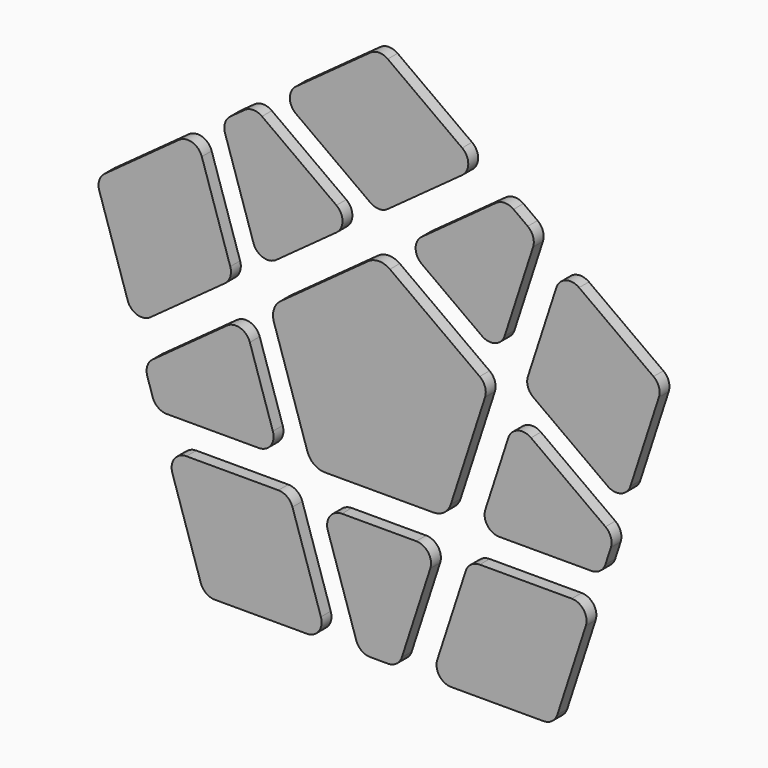
from build123d import *

# Parameters (mm, degrees)
F1_DEPTH = 1


with BuildPart() as f1:
    # F0 (on Front) → F1 (new body)
    with BuildSketch(Plane.XZ):
        with BuildLine():
            ThreePointArc((-12.514456, 3.324552), (-12.078531, 3.924552), (-12.078531, 4.666193))
            Line((-12.078531, 4.666193), (-14.38546, 11.766193))
            ThreePointArc((-14.38546, 11.766193), (-15.155908, 12.536641), (-16.232071, 12.366193))
            Line((-16.232071, 12.366193), (-22.271691, 7.978152))
            ThreePointArc((-22.271691, 7.978152), (-22.707617, 7.378152), (-22.707617, 6.636511))
            Line((-22.707617, 6.636511), (-20.400687, -0.463489))
            ThreePointArc((-20.400687, -0.463489), (-19.63024, -1.233936), (-18.554077, -1.063489))
            Line((-18.554077, -1.063489), (-12.514456, 3.324552))
        make_face()
        with BuildLine():
            Line((-8.346267, 6.352919), (-3.462847, 9.900932))
            ThreePointArc((-3.462847, 9.900932), (-2.968189, 10.871752), (-3.462847, 11.842572))
            Line((-3.462847, 11.842572), (-9.502467, 16.230614))
            ThreePointArc((-9.502467, 16.230614), (-10.20781, 16.459793), (-10.913152, 16.230614))
            Line((-10.913152, 16.230614), (-12.063882, 15.39456))
            ThreePointArc((-12.063882, 15.39456), (-12.499807, 14.79456), (-12.499807, 14.052919))
            Line((-12.499807, 14.052919), (-10.192877, 6.952919))
            ThreePointArc((-10.192877, 6.952919), (-9.42243, 6.182472), (-8.346267, 6.352919))
        make_face()
        with BuildLine():
            ThreePointArc((-0.705342, 12.929298), (0, 12.700119), (0.705342, 12.929298))
            Line((0.705342, 12.929298), (6.744963, 17.31734))
            ThreePointArc((6.744963, 17.31734), (7.239621, 18.28816), (6.744963, 19.25898))
            Line((6.744963, 19.25898), (0.705342, 23.647022))
            ThreePointArc((0.705342, 23.647022), (0, 23.876201), (-0.705342, 23.647022))
            Line((-0.705342, 23.647022), (-6.744963, 19.25898))
            ThreePointArc((-6.744963, 19.25898), (-7.239621, 18.28816), (-6.744963, 17.31734))
            Line((-6.744963, 17.31734), (-0.705342, 12.929298))
        make_face()
        with BuildLine():
            Line((3.462847, 9.900932), (8.346267, 6.352919))
            ThreePointArc((8.346267, 6.352919), (9.42243, 6.182472), (10.192877, 6.952919))
            Line((10.192877, 6.952919), (12.499807, 14.052919))
            ThreePointArc((12.499807, 14.052919), (12.499807, 14.79456), (12.063882, 15.39456))
            Line((12.063882, 15.39456), (10.913152, 16.230614))
            ThreePointArc((10.913152, 16.230614), (10.20781, 16.459793), (9.502467, 16.230614))
            Line((9.502467, 16.230614), (3.462847, 11.842572))
            ThreePointArc((3.462847, 11.842572), (2.968189, 10.871752), (3.462847, 9.900932))
        make_face()
        with BuildLine():
            Line((-4.392264, -7.545432), (4.392264, -7.545432))
            ThreePointArc((4.392264, -7.545432), (5.273941, -7.258958), (5.818848, -6.508958))
            Line((5.818848, -6.508958), (8.600771, 2.052919))
            ThreePointArc((8.600771, 2.052919), (8.600771, 2.79456), (8.164845, 3.39456))
            Line((8.164845, 3.39456), (0.881678, 8.686091))
            ThreePointArc((0.881678, 8.686091), (0, 8.972565), (-0.881678, 8.686091))
            Line((-0.881678, 8.686091), (-7.98851, 3.522675))
            ThreePointArc((-7.98851, 3.522675), (-8.533417, 2.772675), (-8.533417, 1.845624))
            Line((-8.533417, 1.845624), (-5.818848, -6.508958))
            ThreePointArc((-5.818848, -6.508958), (-5.273941, -7.258958), (-4.392264, -7.545432))
        make_face()
        with BuildLine():
            Line((-8.621123, -5.974612), (-10.486424, -0.233807))
            ThreePointArc((-10.486424, -0.233807), (-11.256871, 0.536641), (-12.333034, 0.366193))
            Line((-12.333034, 0.366193), (-18.372655, -4.021848))
            ThreePointArc((-18.372655, -4.021848), (-18.80858, -4.621848), (-18.80858, -5.363489))
            Line((-18.80858, -5.363489), (-18.369041, -6.716253))
            ThreePointArc((-18.369041, -6.716253), (-17.933115, -7.316253), (-17.227773, -7.545432))
            Line((-17.227773, -7.545432), (-9.762391, -7.545432))
            ThreePointArc((-9.762391, -7.545432), (-8.791571, -7.050774), (-8.621123, -5.974612))
        make_face()
        with BuildLine():
            ThreePointArc((-14.470005, -18.716253), (-14.034079, -19.316253), (-13.328737, -19.545432))
            Line((-13.328737, -19.545432), (-5.863355, -19.545432))
            ThreePointArc((-5.863355, -19.545432), (-4.892534, -19.050774), (-4.722087, -17.974612))
            Line((-4.722087, -17.974612), (-7.029017, -10.874612))
            ThreePointArc((-7.029017, -10.874612), (-7.464942, -10.274612), (-8.170285, -10.045432))
            Line((-8.170285, -10.045432), (-15.635667, -10.045432))
            ThreePointArc((-15.635667, -10.045432), (-16.606487, -10.54009), (-16.776934, -11.616253))
            Line((-16.776934, -11.616253), (-14.470005, -18.716253))
        make_face()
        with BuildLine():
            Line((3.01812, -10.045432), (-3.01812, -10.045432))
            ThreePointArc((-3.01812, -10.045432), (-3.98894, -10.54009), (-4.159388, -11.616253))
            Line((-4.159388, -11.616253), (-1.852458, -18.716253))
            ThreePointArc((-1.852458, -18.716253), (-1.416532, -19.316253), (-0.71119, -19.545432))
            Line((-0.71119, -19.545432), (0.71119, -19.545432))
            ThreePointArc((0.71119, -19.545432), (1.416532, -19.316253), (1.852458, -18.716253))
            Line((1.852458, -18.716253), (4.159388, -11.616253))
            ThreePointArc((4.159388, -11.616253), (3.98894, -10.54009), (3.01812, -10.045432))
        make_face()
        with BuildLine():
            ThreePointArc((8.170285, -10.045432), (7.464942, -10.274612), (7.029017, -10.874612))
            Line((7.029017, -10.874612), (4.722087, -17.974612))
            ThreePointArc((4.722087, -17.974612), (4.892534, -19.050774), (5.863355, -19.545432))
            Line((5.863355, -19.545432), (13.328737, -19.545432))
            ThreePointArc((13.328737, -19.545432), (14.034079, -19.316253), (14.470005, -18.716253))
            Line((14.470005, -18.716253), (16.776934, -11.616253))
            ThreePointArc((16.776934, -11.616253), (16.606487, -10.54009), (15.635667, -10.045432))
            Line((15.635667, -10.045432), (8.170285, -10.045432))
        make_face()
        with BuildLine():
            Line((10.486424, -0.233807), (8.621123, -5.974612))
            ThreePointArc((8.621123, -5.974612), (8.791571, -7.050774), (9.762391, -7.545432))
            Line((9.762391, -7.545432), (17.227773, -7.545432))
            ThreePointArc((17.227773, -7.545432), (17.933115, -7.316253), (18.369041, -6.716253))
            Line((18.369041, -6.716253), (18.80858, -5.363489))
            ThreePointArc((18.80858, -5.363489), (18.80858, -4.621848), (18.372655, -4.021848))
            Line((18.372655, -4.021848), (12.333034, 0.366193))
            ThreePointArc((12.333034, 0.366193), (11.256871, 0.536641), (10.486424, -0.233807))
        make_face()
        with BuildLine():
            ThreePointArc((12.078531, 4.666193), (12.078531, 3.924552), (12.514456, 3.324552))
            Line((12.514456, 3.324552), (18.554077, -1.063489))
            ThreePointArc((18.554077, -1.063489), (19.63024, -1.233936), (20.400687, -0.463489))
            Line((20.400687, -0.463489), (22.707617, 6.636511))
            ThreePointArc((22.707617, 6.636511), (22.707617, 7.378152), (22.271691, 7.978152))
            Line((22.271691, 7.978152), (16.232071, 12.366193))
            ThreePointArc((16.232071, 12.366193), (15.155908, 12.536641), (14.38546, 11.766193))
            Line((14.38546, 11.766193), (12.078531, 4.666193))
        make_face()
    extrude(amount=F1_DEPTH)


solid = f1.part
